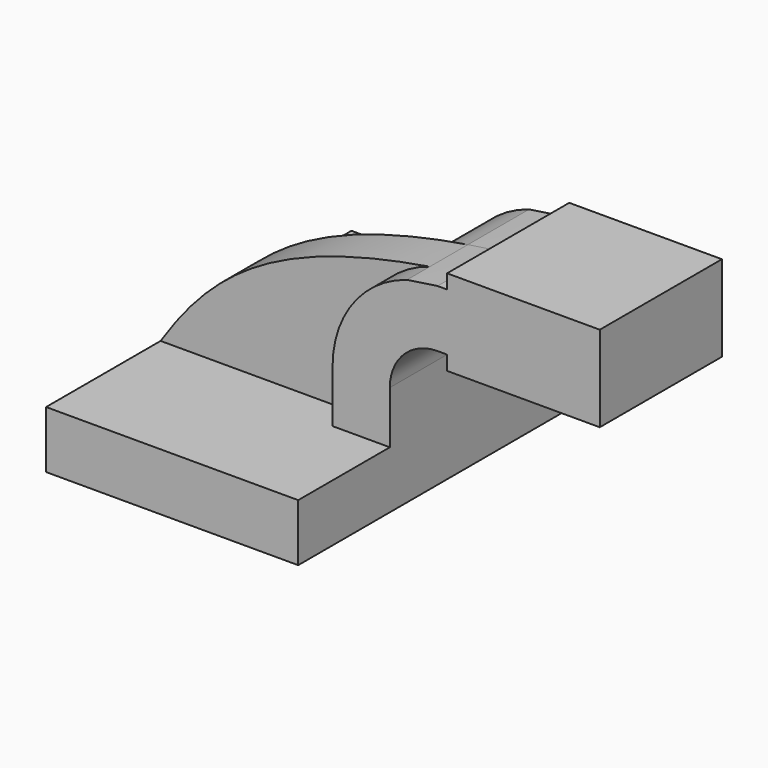
from build123d import *

# Parameters (mm, degrees)
F1_DEPTH = 63.5
F0_W     = 25.4
F0_H     = 4.7752
F0_H_2   = 4.7498
F0_H_3   = 19.05
F2_DEPTH = 25.4
F3_DEPTH = 15.875


with BuildPart() as f1:
    # F0 (on Front) → F1 (new body, symmetric)
    with BuildSketch(Plane.XZ):
        Polygon((-41.9416204095, -9.525), (41.9416204095, -9.525), (41.9416204095, 9.525), (22.8916204095, 9.525), (-41.9416204095, 9.525), align=None)
    extrude(amount=F1_DEPTH, both=True)

    # F0 (on Front) → F2 (join, symmetric)
    with BuildSketch(Plane.XZ):
        with BuildLine():
            Line((22.8916204095, 9.525), (41.9416204095, 9.525))
            Line((41.9416204095, 9.525), (41.9416204095, 27.0002))
            ThreePointArc((41.9416204095, 27.0002), (46.5913002582, 38.2255201513), (57.8166204095, 42.8752))
            Line((57.8166204095, 42.8752), (60.9916204095, 42.8752))
            Line((60.9916204095, 42.8752), (60.9916204095, 61.9252))
            Line((60.9916204095, 61.9252), (57.8166204095, 61.9252))
            add(Edge.make_bspline(
                [(47.6262813731, 60.4054782554), (50.8985735157, 60.9424204342), (54.2930453114, 61.4486153253), (57.8166204095, 61.9252)],
                knots=[105.8157704089, 105.8157704089, 105.8157704089, 105.8157704089, 112.6831290448, 112.6831290448, 112.6831290448, 112.6831290448], degree=3))
            ThreePointArc((47.6262813731, 60.4054782554), (29.7483713026, 47.7831020369), (22.8916204095, 27.0002))
            Line((22.8916204095, 27.0002), (22.8916204095, 9.525))
        make_face()
        with Locations((73.6916204095, 40.4876)):
            Rectangle(F0_W, F0_H)
        with Locations((73.6916204095, 64.3001)):
            Rectangle(F0_W, F0_H_2)
        with Locations((73.6916204095, 52.4002)):
            Rectangle(F0_W, F0_H_3)
        Polygon((86.3916204095, 61.9252), (86.3916204095, 42.8752), (86.3916204095, 38.1), (111.7916204095, 38.1), (111.7916204095, 66.675), (86.3916204095, 66.675), align=None)
    extrude(amount=F2_DEPTH, both=True)

    # F0 (on Front) → F3 (join)
    with BuildSketch(Plane.XZ):
        with BuildLine():
            add(Edge.make_bspline(
                [(-41.9416204095, 9.525), (-24.2078539178, 36.5584305008), (-2.7948677813, 52.1319988404), (47.6262813731, 60.4054782554)],
                knots=[0, 0, 0, 0, 105.8157704089, 105.8157704089, 105.8157704089, 105.8157704089], degree=3))
            Line((-41.9416204095, 9.525), (22.8916204095, 9.525))
            Line((22.8916204095, 9.525), (22.8916204095, 27.0002))
            ThreePointArc((22.8916204095, 27.0002), (29.7483713026, 47.7831020369), (47.6262813731, 60.4054782554))
        make_face()
    extrude(amount=F3_DEPTH)


solid = f1.part
